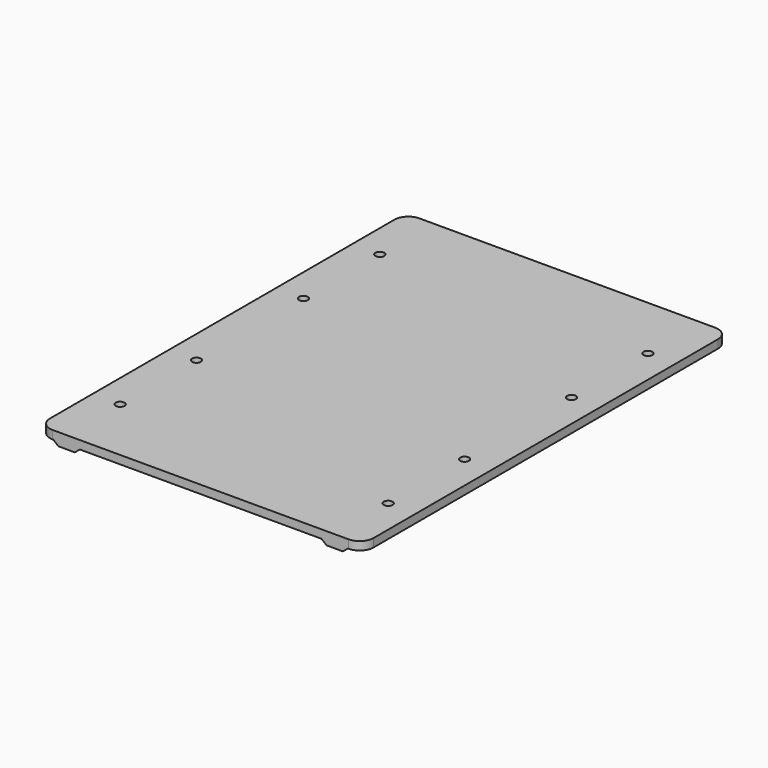
from build123d import *

# Parameters (mm, degrees)
SKETCH_W        = 116.5
SKETCH_H        = 165
PAD_DEPTH       = 3
PAD001_DEPTH    = 165
SKETCH002_R     = 1.6
POCKET_DEPTH    = 4.5
SKETCH003_W     = 9.5
SKETCH003_H     = 9.5
POCKET001_DEPTH = 1.5
FILLET_R        = 5


with BuildPart() as part:
    # Sketch → Pad (new body)
    with BuildSketch(Plane.XY):
        Rectangle(SKETCH_W, SKETCH_H)
    extrude(amount=PAD_DEPTH)

    # Sketch001 (on Face3 of Pad) → Pad001 (join)
    with BuildSketch(Plane.XZ.offset(82.5)):
        Polygon((-53, 0), (-43.5, 0), (-45.3, -1.5), (-51.2, -1.5), align=None)
    pad001 = extrude(amount=-PAD001_DEPTH)

    # Sketch002 (on Face10 of Pad001) → Pocket (cut)
    with BuildSketch(Plane(origin=(0, 0, -1.5), x_dir=(1, 0, 0), z_dir=(0, 0, -1))):
        with Locations((-48.25, -24.064)):
            Circle(SKETCH002_R)
        with Locations((-48.25, -58.436)):
            Circle(SKETCH002_R)
        with Locations((-48.25, 58.436)):
            Circle(SKETCH002_R)
        with Locations((-48.25, 24.064)):
            Circle(SKETCH002_R)
    pocket = extrude(amount=-POCKET_DEPTH, mode=Mode.SUBTRACT)

    # Sketch003 (on Face10 of Pocket) → Pocket001 (cut)
    with BuildSketch(Plane(origin=(0, 0, -1.5), x_dir=(1, 0, 0), z_dir=(0, 0, -1))):
        with Locations((-48.25, 24.064)):
            Rectangle(SKETCH003_W, SKETCH003_H)
        with Locations((-48.25, 58.436)):
            Rectangle(SKETCH003_W, SKETCH003_H)
        with Locations((-48.25, -24.064)):
            Rectangle(SKETCH003_W, SKETCH003_H)
        with Locations((-48.25, -58.436)):
            Rectangle(SKETCH003_W, SKETCH003_H)
    pocket001 = extrude(amount=-POCKET001_DEPTH, mode=Mode.SUBTRACT)

    # Mirrored: Pad001, Pocket, Pocket001 across YZ
    add(pad001.mirror(Plane.YZ))
    add(pocket.mirror(Plane.YZ), mode=Mode.SUBTRACT)
    add(pocket001.mirror(Plane.YZ), mode=Mode.SUBTRACT)

    # Fillet
    fillet_edges = [part.edges().sort_by_distance(p)[0] for p in [
        (58.25, 82.5, 1.5),
        (-58.25, 82.5, 1.5),
        (58.25, -82.5, 1.5),
        (-58.25, -82.5, 1.5),
    ]]
    fillet(fillet_edges, radius=FILLET_R)


solid = part.part
